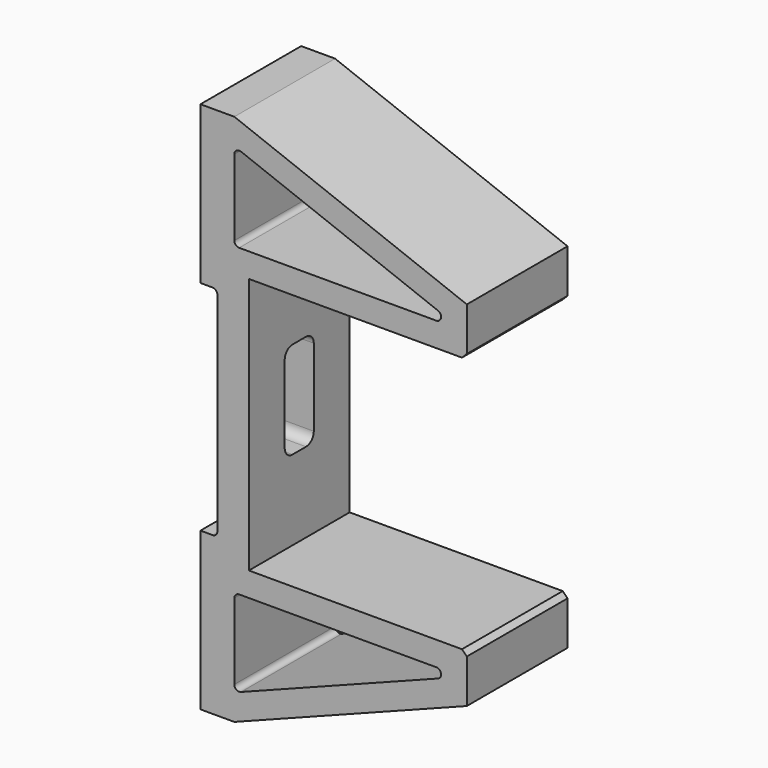
from build123d import *

# Parameters (mm, degrees)
F1_DEPTH = 26
F2_R     = 1
F3_SIZE  = 1
F5_DEPTH = 6.5


with BuildPart() as f1:
    # F0 (on Front) → F1 (new body)
    with BuildSketch(Plane.XZ):
        Polygon((-27.5, -55), (-20.5, -55), (27.5, -36.5), (27.5, -26.5), (-17.5, -26.5), (-17.5, 26.5), (27.5, 26.5), (27.5, 36.5), (-20.5, 55), (-27.5, 55), (-27.5, 22.5), (-24, 22.5), (-24, -22.5), (-27.5, -22.5), align=None)
        Polygon((-20.5, -31.5), (26.5698068675, -31.5), (-20.5, -49.6414880635), align=None, mode=Mode.SUBTRACT)
        Polygon((-20.5, 31.5), (-20.5, 49.6414880635), (26.5698068675, 31.5), align=None, mode=Mode.SUBTRACT)
    extrude(amount=F1_DEPTH)

    # F2
    f2_edges = [f1.edges().sort_by_distance(p)[0] for p in [
        (-20.5, -13, 49.641488),
        (-20.5, -13, 31.5),
        (26.569807, -13, 31.5),
        (26.569807, -13, -31.5),
        (-20.5, -13, -31.5),
        (-20.5, -13, -49.641488),
        (-24, -13, -22.5),
        (-24, -13, 22.5),
    ]]
    fillet(f2_edges, radius=F2_R)

    # F3
    f3_edges = [f1.edges().sort_by_distance(p)[0] for p in [
        (27.5, -13, -26.5),
        (27.5, -13, 26.5),
    ]]
    chamfer(f3_edges, length=F3_SIZE)

    # F4 (on face) → F5 (cut, through all)
    with BuildSketch(Plane.YZ.offset(-17.5)):
        with BuildLine():
            ThreePointArc((-9.25, 8), (-9.8357864376, 9.4142135624), (-11.25, 10))
            Line((-11.25, 10), (-14.75, 10))
            ThreePointArc((-14.75, 10), (-16.1642135624, 9.4142135624), (-16.75, 8))
            Line((-16.75, 8), (-16.75, -8))
            ThreePointArc((-16.75, -8), (-16.1642135624, -9.4142135624), (-14.75, -10))
            Line((-14.75, -10), (-11.25, -10))
            ThreePointArc((-11.25, -10), (-9.8357864376, -9.4142135624), (-9.25, -8))
            Line((-9.25, -8), (-9.25, 8))
        make_face()
    extrude(amount=-F5_DEPTH, mode=Mode.SUBTRACT)


solid = f1.part
